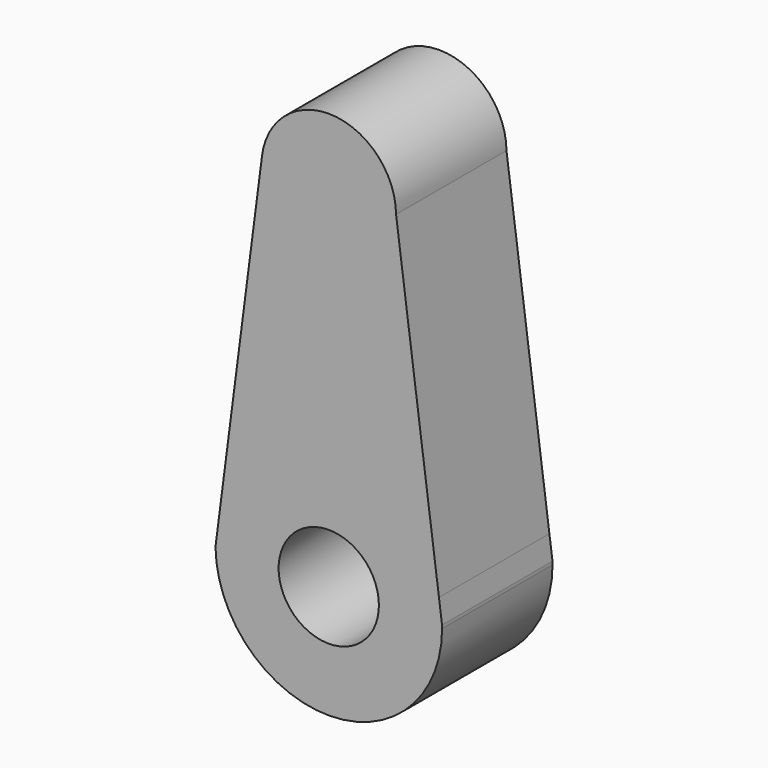
from build123d import *

# Parameters (mm, degrees)
F3_DEPTH = 25
F4_R     = 9.0796011672
F1_DEPTH = 25.001


with BuildPart() as f3:
    # F0 (on Front) → F3 (new body)
    with BuildSketch(Plane.XZ):
        with BuildLine():
            ThreePointArc((-19.7645010797, 5.5130958701), (0.37275315, 20.5156229272), (19.9517273723, 4.7914824287))
            Line((19.9517273723, 4.7914824287), (12.1827293854, 63.3225138022))
            ThreePointArc((12.1827293854, 63.3225138022), (12.182963444, 63.2789135305), (12.1830414638, 63.2353127003))
            ThreePointArc((12.1830414638, 63.2353127003), (-0.7187475959, 51.0734912412), (-12.0982353654, 64.6703041121))
            Line((-12.0982353654, 64.6703041121), (-19.7645010797, 5.5130958701))
        make_face()
        with BuildLine():
            ThreePointArc((-20.5169173469, -0.2929702728), (0.1464888696, -20.5184860556), (20.5190089673, 0))
            ThreePointArc((20.5190089673, 0), (20.5169645522, 0.2896455881), (20.5108317141, 0.5792334584))
            Line((20.5108317141, 0.5792334584), (19.9517273723, 4.7914824287))
            ThreePointArc((19.9517273723, 4.7914824287), (0.37275315, 20.5156229272), (-19.7645010797, 5.5130958701))
            Line((-19.7645010797, 5.5130958701), (-20.5169173469, -0.2929702728))
        make_face()
        with BuildLine():
            ThreePointArc((12.1830414638, 63.2353127003), (12.182963444, 63.2789135305), (12.1827293854, 63.3225138022))
            ThreePointArc((12.1827293854, 63.3225138022), (0.6752181053, 75.3996285388), (-12.0982353654, 64.6703041121))
            ThreePointArc((-12.0982353654, 64.6703041121), (-0.7187475959, 51.0734912412), (12.1830414638, 63.2353127003))
        make_face()
    extrude(amount=F3_DEPTH)

    # F4 (on Front) → F1 (cut, through all)
    with BuildSketch(Plane.XZ):
        Circle(F4_R)
    extrude(amount=F1_DEPTH, mode=Mode.SUBTRACT)


solid = f3.part
